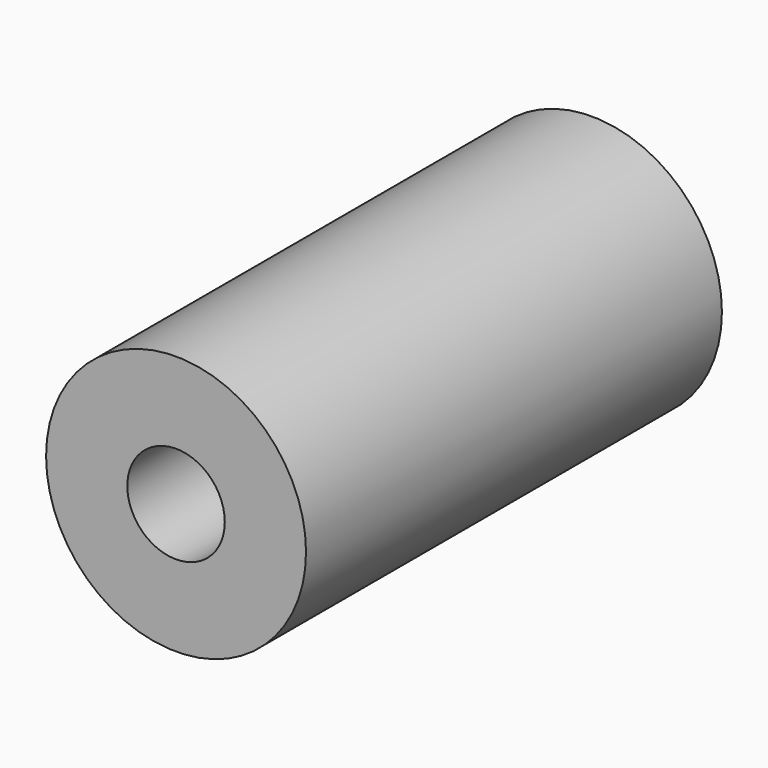
from build123d import *

# Parameters (mm, degrees)
F0_R        = 12.7
F0_R_2      = 4.7625
F1_DEPTH    = 25.4
F1_FACE_R   = 12.7
F1_FACE_R_2 = 4.7625
F2_DEPTH    = 25.4


with BuildPart() as f1:
    # F0 (on Front) → F1 (new body)
    with BuildSketch(Plane.XZ):
        with Locations((-6.704476, 7.101479)):
            Circle(F0_R)
        with Locations((-6.704476, 7.101479)):
            Circle(F0_R_2, mode=Mode.SUBTRACT)
    extrude(amount=F1_DEPTH)

    # F1_face (on face) → F2 (join)
    with BuildSketch(Plane(origin=(-6.704476, -25.4, 7.101479), x_dir=(1, 0, 0), z_dir=(0, -1, 0))):
        Circle(F1_FACE_R)
        Circle(F1_FACE_R_2, mode=Mode.SUBTRACT)
    extrude(amount=F2_DEPTH)


solid = f1.part
